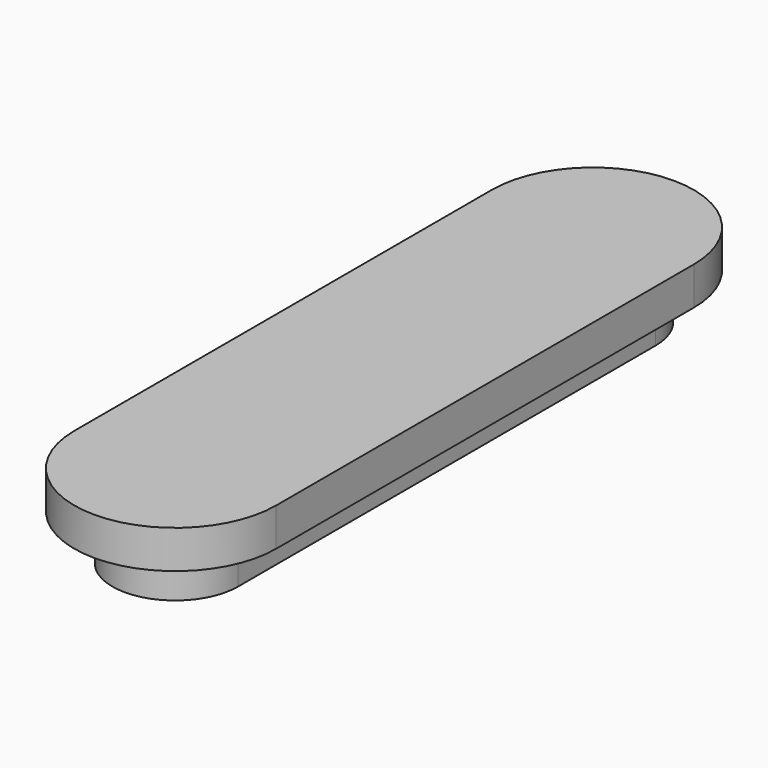
from build123d import *

# Parameters (mm, degrees)
F1_DEPTH = 44
F2_DEPTH = 20


with BuildPart() as f1:
    # F0 (on Top) → F1 (new body)
    with BuildSketch(Plane.XY):
        with BuildLine():
            ThreePointArc((33, 137.000005), (0, 170), (-33, 137.000005))
            Line((-33, 137.000005), (-33, -137.000005))
            ThreePointArc((-33, -137.000005), (0, -170), (33, -137.000005))
            Line((33, -137.000005), (33, 137.000005))
        make_face()
    extrude(amount=-F1_DEPTH)

    # F0 (on Top) → F2 (join)
    with BuildSketch(Plane.XY):
        with BuildLine():
            ThreePointArc((-53, -137), (0, -190), (53, -137))
            Line((53, -137), (53, 137))
            ThreePointArc((53, 137), (0, 190), (-53, 137))
            Line((-53, 137), (-53, -137))
        make_face()
        with BuildLine():
            Line((-33, -137.000005), (-33, 137.000005))
            ThreePointArc((-33, 137.000005), (0, 170), (33, 137.000005))
            Line((33, 137.000005), (33, -137.000005))
            ThreePointArc((33, -137.000005), (0, -170), (-33, -137.000005))
        make_face(mode=Mode.SUBTRACT)
    extrude(amount=-F2_DEPTH)


solid = f1.part
